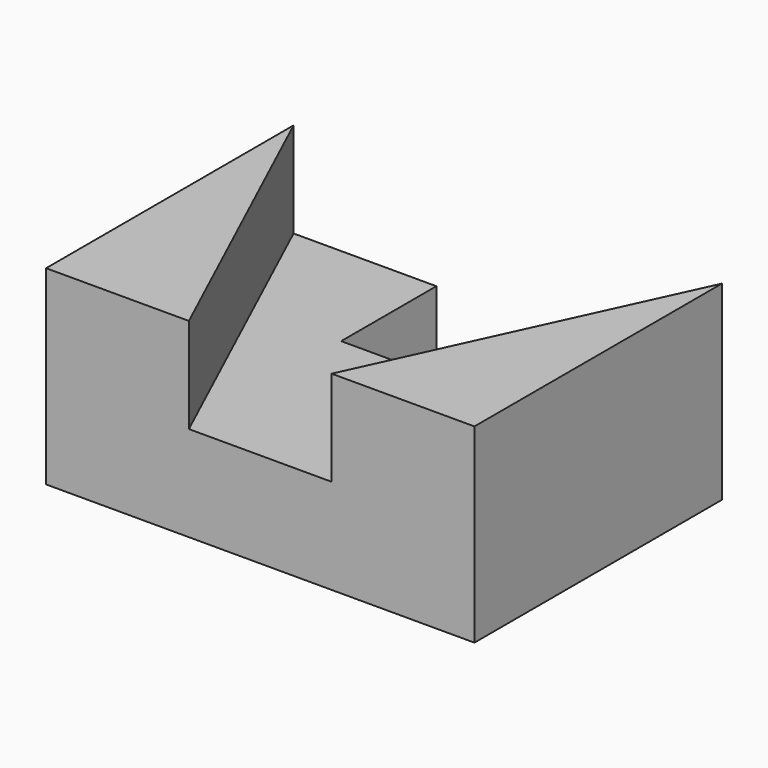
from build123d import *

# Parameters (mm, degrees)
F1_DEPTH = 508
F3_DEPTH = 508


with BuildPart() as f1:
    # F0 (on Top) → F1 (new body)
    with BuildSketch(Plane.XY):
        Polygon((-1143, -825.5), (1143, -825.5), (1143, 825.5), (381, 825.5), (381, 190.5), (-381, 190.5), (-381, 825.5), (-1143, 825.5), align=None)
    extrude(amount=F1_DEPTH)

    # F2 (on face) → F3 (join)
    with BuildSketch(Plane.XY.offset(508)):
        Polygon((-1143, 825.5), (-1143, -825.5), (-381, -825.5), align=None)
        Polygon((1143, 825.5), (381, -825.5), (1143, -825.5), align=None)
    extrude(amount=F3_DEPTH)


solid = f1.part
